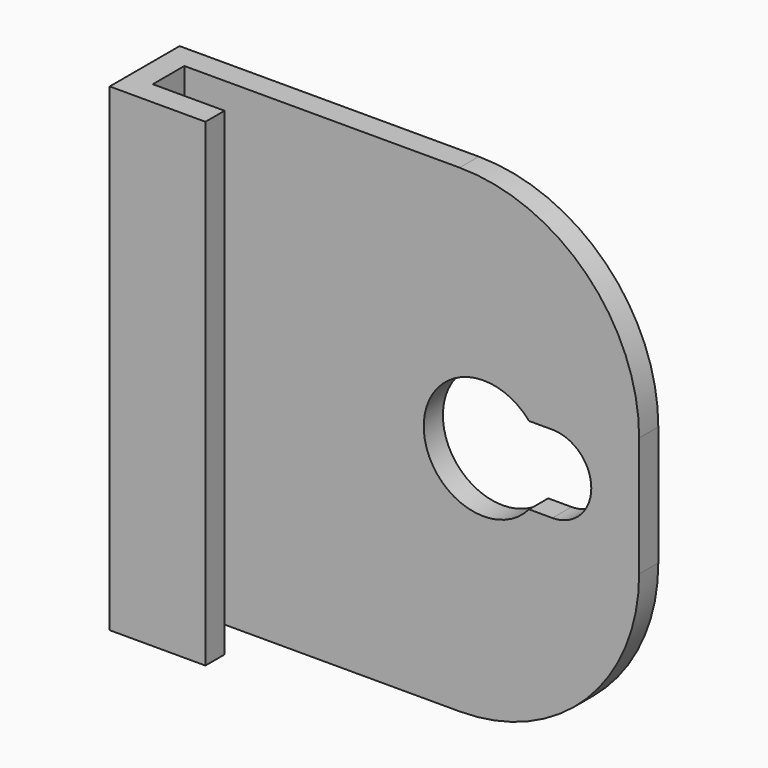
from build123d import *

# Parameters (mm, degrees)
F1_DEPTH = 40
F3_DEPTH = 2
F4_R     = 15


with BuildPart() as f1:
    # F0 (on Top) → F1 (new body)
    with BuildSketch(Plane.XY):
        Polygon((-20, -3.65), (-12, -3.65), (-12, -1.65), (-18, -1.65), (-18, 1.65), (20, 1.65), (20, 3.65), (-20, 3.65), align=None)
    extrude(amount=F1_DEPTH)

    # F2 (on face) → F3 (cut, through all)
    with BuildSketch(Plane(origin=(0, 3.65, 0), x_dir=(-1, 0, 0), z_dir=(0, 1, 0))):
        with BuildLine():
            Line((-12.75, 16.75), (-10.799671, 16.75))
            Line((-10.799671, 16.75), (-7, 16.75))
            Line((-7, 16.75), (-7, 23.25))
            Line((-7, 23.25), (-10.799671, 23.25))
            Line((-10.799671, 23.25), (-12.75, 23.25))
            ThreePointArc((-12.75, 23.25), (-16, 20), (-12.75, 16.75))
        make_face()
        with BuildLine():
            Line((-7, 16.75), (-10.799671, 16.75))
            ThreePointArc((-10.799671, 16.75), (-2, 20), (-10.799671, 23.25))
            Line((-10.799671, 23.25), (-7, 23.25))
            Line((-7, 23.25), (-7, 16.75))
        make_face()
    extrude(amount=-F3_DEPTH, mode=Mode.SUBTRACT)

    # F4
    f4_edges = [f1.edges().sort_by_distance(p)[0] for p in [
        (20, 2.65, 40),
        (20, 2.65, 0),
    ]]
    fillet(f4_edges, radius=F4_R)


solid = f1.part
